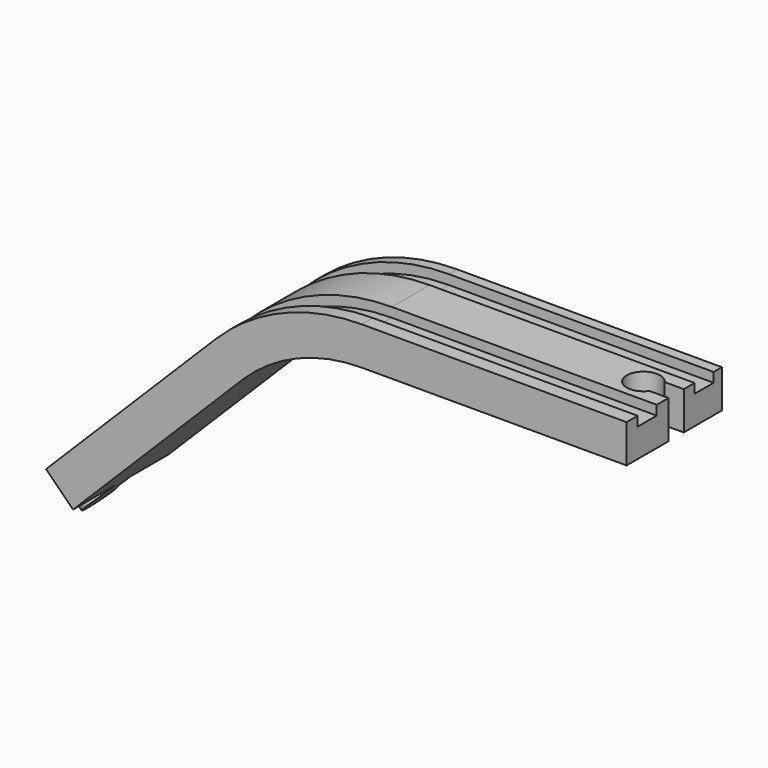
from build123d import *

# Parameters (mm, degrees)
F0_W     = 39.6875
F0_H     = 12.7
F4_DEPTH = 12.7
F8_DEPTH = 6.35
F9_W     = 7.9375
F9_H     = 3.175
F11_W    = 7.9375
F11_H    = 3.175


with BuildPart() as f2:
    # F2: sweep along a path in F1
    with BuildLine(Plane.XZ) as f2_path:
        Line((0, 0), (-88.24850028, 0))
        ThreePointArc((-88.24850028, 0), (-112.1747610939, -4.759229181), (-132.4584655909, -18.3123672238))
        Line((-132.4584655909, -18.3123672238), (-188.9358075988, -74.7897092318))
    # F0 (on Right) → F2 (sweep)
    with BuildSketch(Plane.YZ):
        Rectangle(F0_W, F0_H)
    sweep(path=f2_path.line)

    # F3 (on Top) → F4 (cut, symmetric)
    with BuildSketch(Plane.XY):
        with BuildLine():
            Line((-6.35, -2.38125), (0, -2.38125))
            Line((0, -2.38125), (0, 3.96875))
            Line((0, 3.96875), (-6.35, 3.96875))
            ThreePointArc((-6.35, 3.96875), (-16.4659966007, 0.79375), (-6.35, -2.38125))
        make_face()
    extrude(amount=F4_DEPTH, both=True, mode=Mode.SUBTRACT)

    # F7 (on plane+point) → F8 (join, symmetric)
    with BuildSketch(Plane(origin=(-57.0730491835, 0, 57.0730491835), x_dir=(0, -1, 0), z_dir=(-0.7071067812, 0, 0.7071067812))):
        with BuildLine():
            Line((2.38125, -192.8321013228), (2.38125, -186.4821013228))
            Line((2.38125, -186.4821013228), (-3.96875, -186.4821013228))
            Line((-3.96875, -186.4821013228), (-3.96875, -192.8321013228))
            ThreePointArc((-3.96875, -192.8321013228), (-0.79375, -202.9480979235), (2.38125, -192.8321013228))
        make_face()
    extrude(amount=F8_DEPTH, both=True)

    # F10: sweep along a path in F1
    with BuildLine(Plane.XZ) as f10_path:
        Line((0, 0), (-88.24850028, 0))
        ThreePointArc((-88.24850028, 0), (-112.1747610939, -4.759229181), (-132.4584655909, -18.3123672238))
        Line((-132.4584655909, -18.3123672238), (-188.9358075988, -74.7897092318))
    # F9 (on face) → F10 (sweep, cut)
    with BuildSketch(Plane.YZ):
        with Locations((12.4199826866, 4.7625)):
            Rectangle(F9_W, F9_H)
    sweep(path=f10_path.line, mode=Mode.SUBTRACT)

    # F12: sweep along a path in F1
    with BuildLine(Plane.XZ) as f12_path:
        Line((0, 0), (-88.24850028, 0))
        ThreePointArc((-88.24850028, 0), (-112.1747610939, -4.759229181), (-132.4584655909, -18.3123672238))
        Line((-132.4584655909, -18.3123672238), (-188.9358075988, -74.7897092318))
    # F11 (on face) → F12 (sweep, cut)
    with BuildSketch(Plane.YZ):
        with Locations((-11.2668295726, 4.7625)):
            Rectangle(F11_W, F11_H)
    sweep(path=f12_path.line, mode=Mode.SUBTRACT)


solid = f2.part
